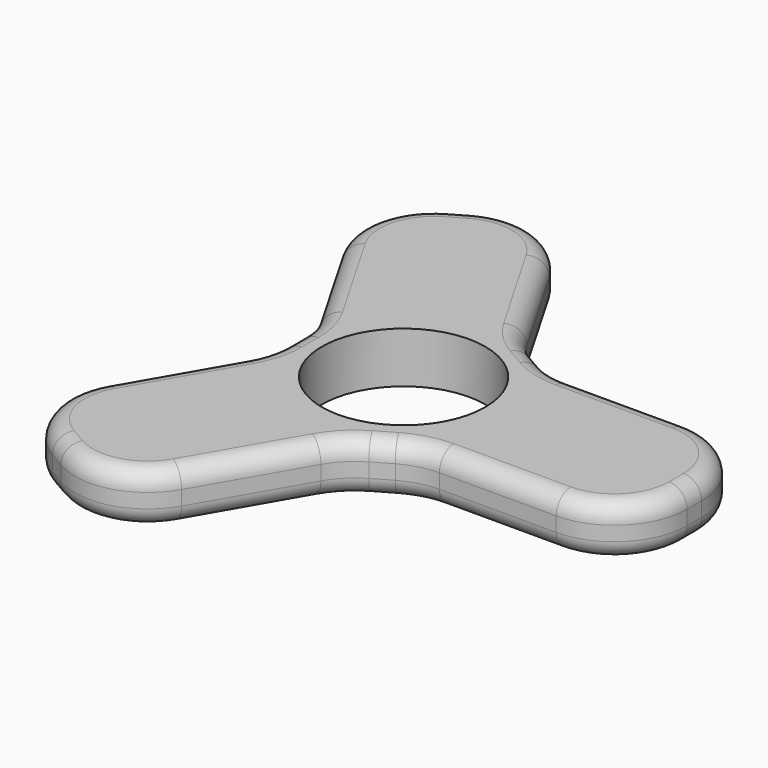
from build123d import *

# Parameters (mm, degrees)
F0_R     = 11.25
F1_DEPTH = 7
F2_R     = 2.5


with BuildPart() as f1:
    # F0 (on Top) → F1 (new body)
    with BuildSketch(Plane.XY):
        with BuildLine():
            ThreePointArc((8.929492, -12.589746), (11.341301, -11.590742), (13.929492, -11.25))
            Line((13.929492, -11.25), (30, -11.25))
            ThreePointArc((30, -11.25), (37.071068, -8.321068), (40, -1.25))
            Line((40, -1.25), (40, 1.25))
            ThreePointArc((40, 1.25), (37.071068, 8.321068), (30, 11.25))
            Line((30, 11.25), (13.929492, 11.25))
            ThreePointArc((13.929492, 11.25), (11.341301, 11.590742), (8.929492, 12.589746))
            Line((8.929492, 12.589746), (6.438294, 14.02804))
            ThreePointArc((6.438294, 14.02804), (4.367226, 15.617226), (2.77804, 17.688294))
            Line((2.77804, 17.688294), (-5.257214, 31.605762))
            ThreePointArc((-5.257214, 31.605762), (-11.329278, 36.26502), (-18.917468, 35.266016))
            Line((-18.917468, 35.266016), (-21.082532, 34.016016))
            ThreePointArc((-21.082532, 34.016016), (-25.74179, 27.943953), (-24.742786, 20.355762))
            Line((-24.742786, 20.355762), (-16.707532, 6.438294))
            ThreePointArc((-16.707532, 6.438294), (-15.708528, 4.026484), (-15.367786, 1.438294))
            Line((-15.367786, 1.438294), (-15.367786, -1.438294))
            ThreePointArc((-15.367786, -1.438294), (-15.708528, -4.026484), (-16.707532, -6.438294))
            Line((-16.707532, -6.438294), (-24.742786, -20.355762))
            ThreePointArc((-24.742786, -20.355762), (-25.74179, -27.943953), (-21.082532, -34.016016))
            Line((-21.082532, -34.016016), (-18.917468, -35.266016))
            ThreePointArc((-18.917468, -35.266016), (-11.329278, -36.26502), (-5.257214, -31.605762))
            Line((-5.257214, -31.605762), (2.77804, -17.688294))
            ThreePointArc((2.77804, -17.688294), (4.367226, -15.617226), (6.438294, -14.02804))
            Line((6.438294, -14.02804), (8.929492, -12.589746))
        make_face()
        Circle(F0_R, mode=Mode.SUBTRACT)
    extrude(amount=F1_DEPTH)

    # F2
    f2_edges = [f1.edges().sort_by_distance(p)[0] for p in [
        (-1.239587, -24.647028, 7),
        (21.964746, 11.25, 0),
    ]]
    fillet(f2_edges, radius=F2_R)


solid = f1.part
